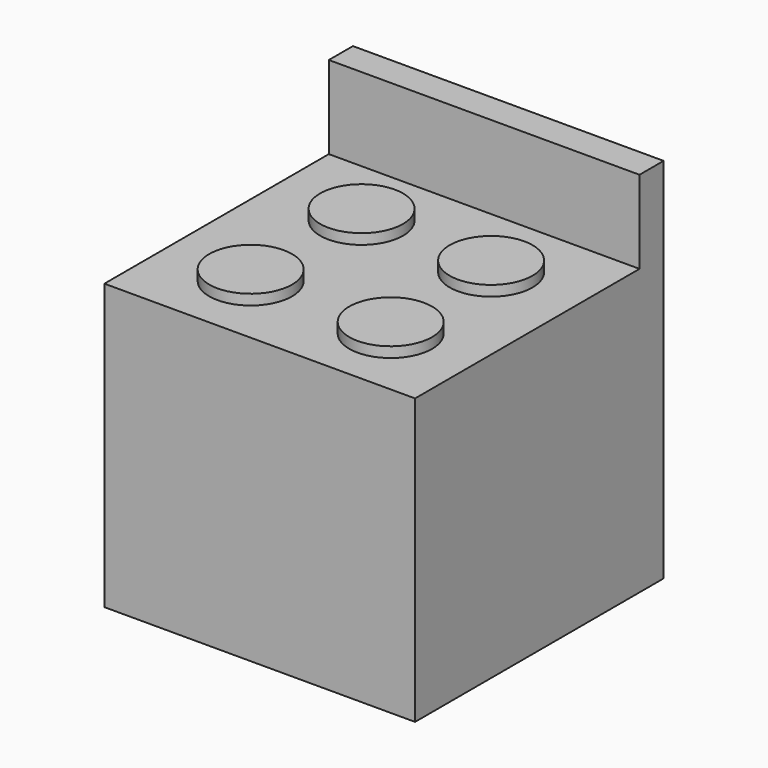
from build123d import *

# Parameters (mm, degrees)
F0_W     = 914.4
F0_H     = 914.4
F1_DEPTH = 838.2
F2_R     = 121.92
F3_DEPTH = 6.096
F4_DEPTH = 30.48
F5_W     = 914.4
F5_H     = 88.663437
F6_DEPTH = 243.84


with BuildPart() as f1:
    # F0 (on Top) → F1 (new body)
    with BuildSketch(Plane.XY):
        with Locations((149.461243, 213.278739)):
            Rectangle(F0_W, F0_H)
    extrude(amount=F1_DEPTH)

    # F2 (on face) → F3 (join)
    with BuildSketch(Plane.XY.offset(838.2)):
        with Locations((350.630858, 355.851579)):
            Circle(F2_R)
        with Locations((-42.704782, 371.038289)):
            Circle(F2_R)
        with Locations((361.261519, -26.853358)):
            Circle(F2_R)
        with Locations((-53.335478, -23.816014)):
            Circle(F2_R)
    extrude(amount=F3_DEPTH)

    # F2 (on face) → F4 (join)
    with BuildSketch(Plane.XY.offset(838.2)):
        with Locations((350.630858, 355.851579)):
            Circle(F2_R)
        with Locations((-42.704782, 371.038289)):
            Circle(F2_R)
        with Locations((361.261519, -26.853358)):
            Circle(F2_R)
        with Locations((-53.335478, -23.816014)):
            Circle(F2_R)
    extrude(amount=F4_DEPTH)

    # F5 (on face) → F6 (join)
    with BuildSketch(Plane.XY.offset(838.2)):
        with Locations((149.461243, 626.147021)):
            Rectangle(F5_W, F5_H)
    extrude(amount=F6_DEPTH)


solid = f1.part
